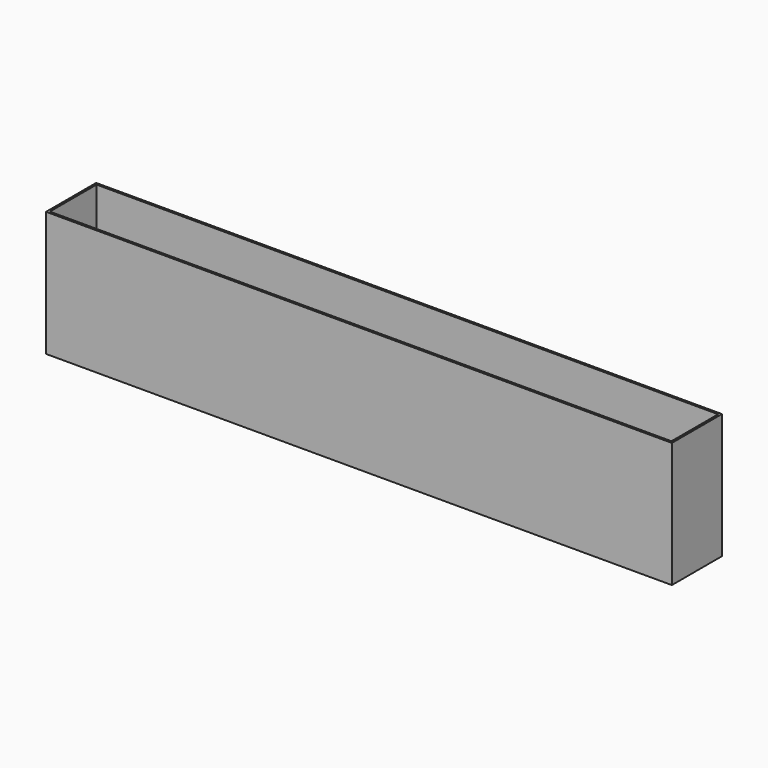
from build123d import *

# Parameters (mm, degrees)
F0_W     = 3000
F0_H     = 300
F1_DEPTH = 600
F2_T     = -10
F4_W     = 2980
F4_H     = 280
F5_DEPTH = 10


with BuildPart() as f1:
    # F0 (on Top) → F1 (new body)
    with BuildSketch(Plane.XY):
        Rectangle(F0_W, F0_H)
    extrude(amount=F1_DEPTH)

    # F2
    f2_openings = [f1.faces().sort_by_distance(p)[0] for p in [
        (0, 0, 600),
        (0, 0, 0),
    ]]
    offset(amount=F2_T, openings=f2_openings)

    # F4 (on offset) → F5 (join)
    with BuildSketch(Plane(origin=(0, 0, 400), x_dir=(1, 0, 0), z_dir=(0, 0, -1))):
        Rectangle(F4_W, F4_H)
    extrude(amount=F5_DEPTH)


solid = f1.part
